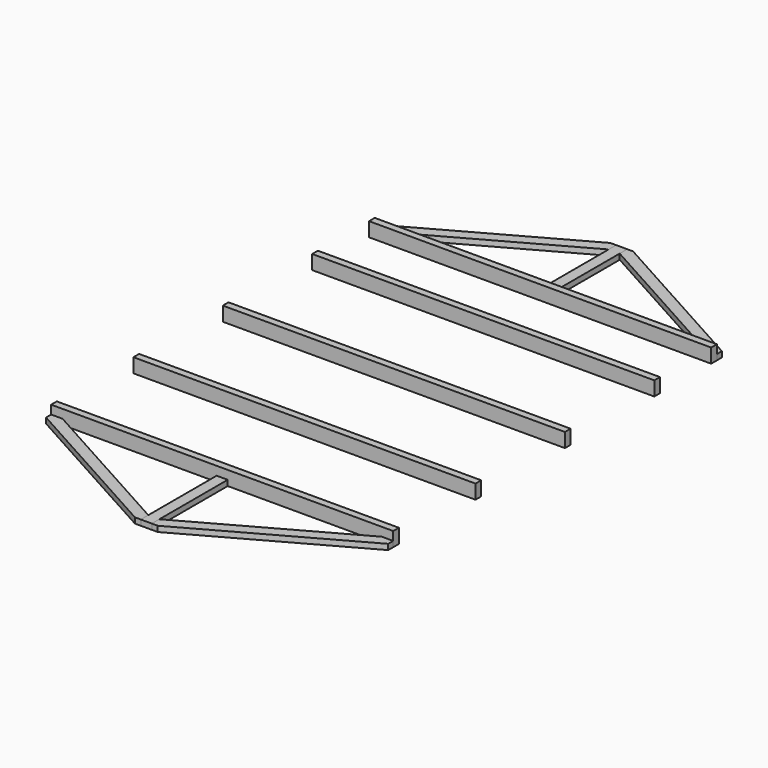
from build123d import *

# Parameters (mm, degrees)
F0_W     = 2164
F0_H     = 45
F1_DEPTH = 90
F2_DEPTH = 35
F3_DEPTH = 35


with BuildPart() as f1:
    # F0 (on Top) → F1 (new body)
    with BuildSketch(Plane.XY):
        Polygon((-1009.823521, 1279.3985), (-1082, 1279.3985), (-1082, 1234.3985), (1082, 1234.3985), (1082, 1279.3985), (1009.823521, 1279.3985), (35, 1279.3985), (-35, 1279.3985), align=None)
        with Locations((0, 807.2925)):
            Rectangle(F0_W, F0_H)
        with Locations((0, 100.3945)):
            Rectangle(F0_W, F0_H)
        with Locations((0, -606.5035)):
            Rectangle(F0_W, F0_H)
        Polygon((1082, -1234.3985), (-1082, -1234.3985), (-1082, -1279.3985), (-1009.823521, -1279.3985), (-35, -1279.3985), (35, -1279.3985), (1009.823521, -1279.3985), (1082, -1279.3985), align=None)
    extrude(amount=F1_DEPTH)


with BuildPart() as f2:
    # F0 (on Top) → F2 (new body)
    with BuildSketch(Plane.XY):
        Polygon((-1082, 1319.418756), (-1082, 1279.3985), (-1009.823521, 1279.3985), (-35, 1819.91652), (-35, 1879.3435), (-72.176479, 1879.3435), align=None)
        Polygon((1009.823521, 1279.3985), (1082, 1279.3985), (1082, 1319.418756), (72.176479, 1879.3435), (35, 1879.3435), (35, 1819.91652), align=None)
        Polygon((-1009.823521, -1279.3985), (-1082, -1279.3985), (-1082, -1319.418756), (-72.176479, -1879.3435), (-35, -1879.3435), (-35, -1819.91652), align=None)
        Polygon((1082, -1319.418756), (1082, -1279.3985), (1009.823521, -1279.3985), (35, -1819.91652), (35, -1879.3435), (72.176479, -1879.3435), align=None)
    extrude(amount=F2_DEPTH)


with BuildPart() as f3:
    # F0 (on Top) → F3 (new body)
    with BuildSketch(Plane.XY):
        Polygon((-35, 1819.91652), (-35, 1279.3985), (35, 1279.3985), (35, 1819.91652), (35, 1879.3435), (-35, 1879.3435), align=None)
        Polygon((35, -1279.3985), (-35, -1279.3985), (-35, -1819.91652), (-35, -1879.3435), (35, -1879.3435), (35, -1819.91652), align=None)
    extrude(amount=F3_DEPTH)


solid = Compound([f1.part, f2.part, f3.part])
